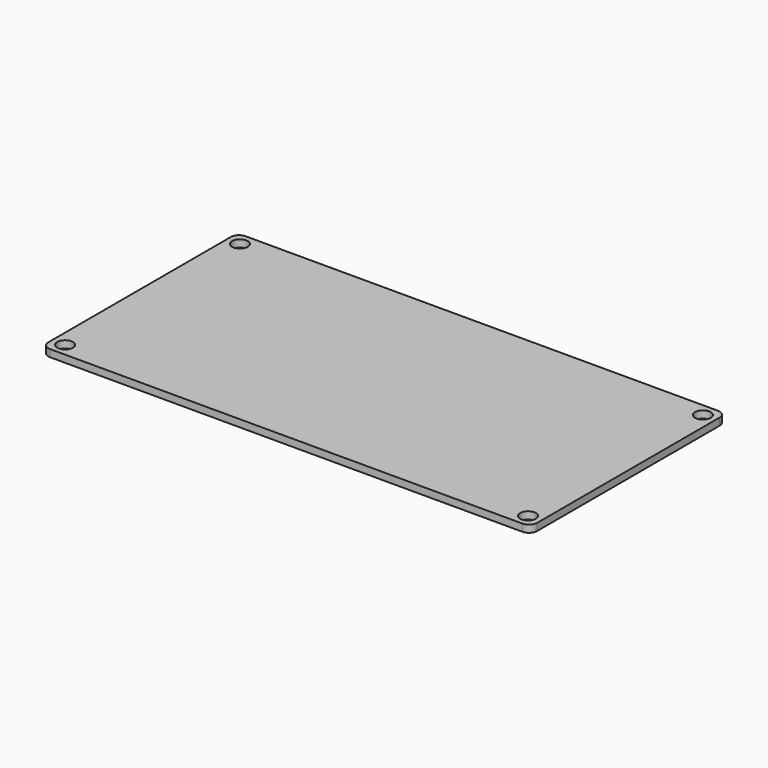
from build123d import *

# Parameters (mm, degrees)
F0_W     = 304.8
F0_H     = 152.4
F1_DEPTH = 4.4958
F2_R     = 5.08
F3_R     = 4.8895
F4_DEPTH = 4.4968


with BuildPart() as f1:
    # F0 (on Top) → F1 (new body)
    with BuildSketch(Plane.XY):
        Rectangle(F0_W, F0_H)
    extrude(amount=F1_DEPTH)

    # F2
    f2_edges = [f1.edges().sort_by_distance(p)[0] for p in [
        (-152.4, 76.2, 2.2479),
        (-152.4, -76.2, 2.2479),
        (152.4, -76.2, 2.2479),
        (152.4, 76.2, 2.2479),
    ]]
    fillet(f2_edges, radius=F2_R)

    # F3 (on face) → F4 (cut, through all)
    with BuildSketch(Plane.XY.offset(4.4958)):
        with Locations((-144.3355, 68.1355)):
            Circle(F3_R)
        with Locations((144.3355, 68.1355)):
            Circle(F3_R)
        with Locations((144.3355, -68.1355)):
            Circle(F3_R)
        with Locations((-144.3355, -68.1355)):
            Circle(F3_R)
    extrude(amount=-F4_DEPTH, mode=Mode.SUBTRACT)


solid = f1.part
